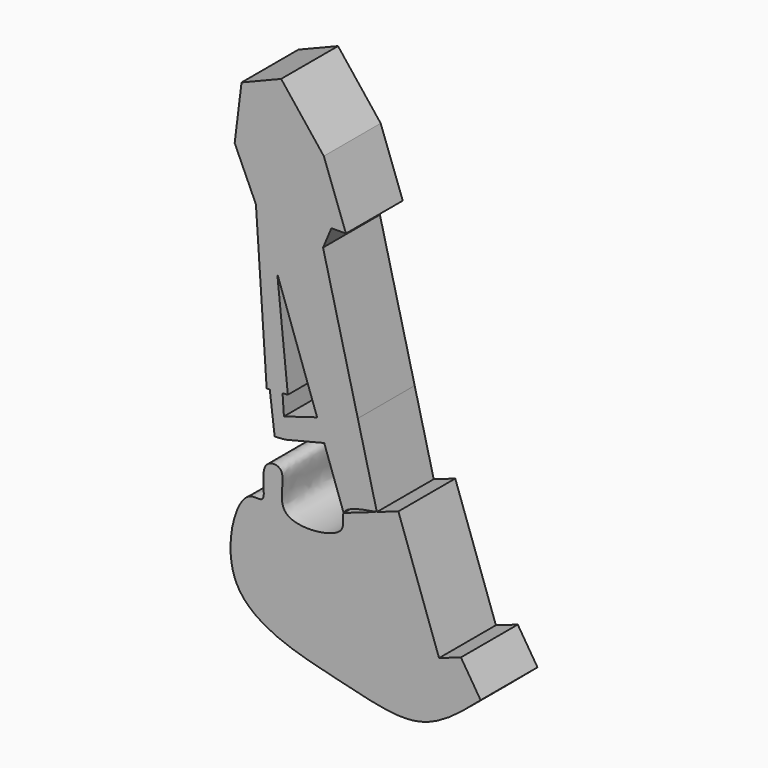
from build123d import *

# Parameters (mm, degrees)
F1_DEPTH = 25


with BuildPart() as f1:
    # F0 (on Front) → F1 (new body)
    with BuildSketch(Plane.XZ):
        Polygon((-67.9549872875, 86.7890566587), (-62.8639534116, 86.7890566587), (-70.6344842911, 108.2249954343), (-85.6396406889, 127.2493898869), (-99.5730012655, 121.6224655509), (-101.9845455885, 102.0621657372), (-94.5079061411, 85.5067434539), (-90.7306820154, 77.1428868175), (-87.0009771891, 66.5113421182), (-72.9916559629, 26.5776927393), (-58.6763904546, 30.8931585449), (-70.9024295211, 79.8223763704), align=None)
        with BuildLine():
            Line((-51.9814671391, 4.0997416872), (-56.6784390995, 22.8972576218))
            Line((-56.6784390995, 22.8972576218), (-70.4898154089, 19.4461820921))
            Line((-70.4898154089, 19.4461820921), (-63.6678040028, 0))
            add(Edge.make_bspline(
                [(-63.6678040028, 0), (-62.6025917878, 2.3804234755), (-57.2920294634, 3.2400825813), (-51.9814671391, 4.0997416872)],
                knots=[0.9196587211, 0.9196587211, 0.9196587211, 0.9196587211, 1, 1, 1, 1], degree=3))
        make_face()
        Polygon((-56.6784390995, 22.8972576218), (-58.6763904546, 30.8931585449), (-72.9916559629, 26.5776927393), (-70.4898154089, 19.4461820921), align=None)
        Polygon((-70.4898154089, 19.4461820921), (-72.9916559629, 26.5776927393), (-84.6643581719, 23.0588514567), (-84.1880339892, 16.0233815049), align=None)
        Polygon((-84.1880339892, 16.0233815049), (-84.6643581719, 23.0588514567), (-85.1406823546, 30.0943214084), (-89.6410877635, 29.7896293348), (-87.9223760767, 15.7705544081), align=None)
        Polygon((-90.7306820154, 77.1428868175), (-94.5079061411, 85.5067434539), (-90.7306820154, 29.7158602625), (-89.6410877635, 29.7896293348), (-85.1406823546, 30.0943214084), (-83.2803875202, 30.2202694151), (-87.0009771891, 66.5113421182), align=None)
    extrude(amount=F1_DEPTH)


with BuildPart() as f1b:
    # F0 (on Front) → F1, piece 2 (new body)
    with BuildSketch(Plane.XZ):
        with BuildLine():
            Line((-44.4123115357, 6.7551146348), (-51.9814671391, 4.0997416872))
            Line((-51.9814671391, 4.0997416872), (-63.6678040028, 0))
            add(Edge.make_bspline(
                [(-84.0157642961, -6.5002837218), (-80.3769619279, -10.4653968659), (-60.7750428984, -8.3022644313), (-64.4048344433, -1.6470375932), (-63.6678040028, 0)],
                knots=[0.7638931488, 0.7638931488, 0.7638931488, 0.7638931488, 0.8640698278, 0.9196587211, 0.9196587211, 0.9196587211, 0.9196587211], degree=3))
            add(Edge.make_bspline(
                [(-97.1819683909, -5.825097207), (-95.1198455048, -4.6972104323), (-89.7261550482, -7.6222241395), (-94.1425307007, 7.441139246), (-82.1160368265, 7.8220231405), (-86.9598682661, -3.2921662788), (-84.0157642961, -6.5002837218)],
                knots=[0.5038246097, 0.5038246097, 0.5038246097, 0.5038246097, 0.5557045571, 0.6297312992, 0.6828416026, 0.7638931488, 0.7638931488, 0.7638931488, 0.7638931488], degree=3))
            add(Edge.make_bspline(
                [(-15.4839940369, -42.28534922), (-22.1916599811, -48.1028908047), (-36.1235931602, -60.1860209572), (-64.3084642847, -52.1724356442), (-110.6817429492, -42.2526482756), (-101.986076631, -8.4527243891), (-97.1819683909, -5.825097207)],
                knots=[0, 0, 0, 0, 0.1139397427, 0.2366547313, 0.3829603855, 0.5038246097, 0.5038246097, 0.5038246097, 0.5038246097], degree=3))
            Line((-15.4839940369, -42.28534922), (-22.417053889, -31.303501404))
            Line((-22.417053889, -31.303501404), (-30.1135620818, -34.003551544))
            Line((-30.1135620818, -34.003551544), (-44.4123115357, 6.7551146348))
        make_face()
    extrude(amount=F1_DEPTH)


solid = Compound([f1.part, f1b.part])
